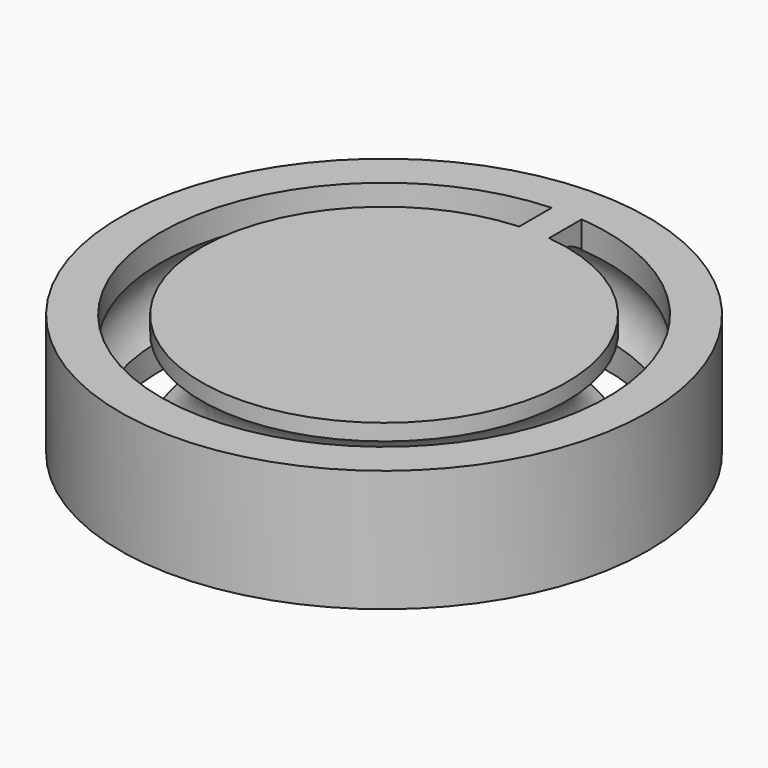
from build123d import *

# Parameters (mm, degrees)
SKETCH_R     = 26
PAD_DEPTH    = 12
POCKET_DEPTH = 12
SKETCH002_R  = 4.5


with BuildPart() as part:
    # Sketch → Pad (new body)
    with BuildSketch(Plane.XY):
        Circle(SKETCH_R)
    extrude(amount=PAD_DEPTH)

    # Sketch001 → Pocket (cut)
    with BuildSketch(Plane.XY):
        with BuildLine():
            ThreePointArc((-1.065198, 21.974197), (-0.435817, -21.995683), (1.934802, 21.914756))
            Line((1.934802, 21.914756), (1.934802, 17.895713))
            ThreePointArc((-1.065198, 17.968454), (-0.436321, -17.994711), (1.934802, 17.895713))
            Line((-1.065198, 21.974197), (-1.065198, 17.968454))
        make_face()
    extrude(amount=POCKET_DEPTH, mode=Mode.SUBTRACT)

    # Sketch002 → Groove (revolve, cut)
    with BuildSketch(Plane.YZ):
        with Locations((19, 6)):
            Circle(SKETCH002_R)
    revolve(axis=Axis((0, 0, 0), (0, 0, 1)), mode=Mode.SUBTRACT)


solid = part.part
